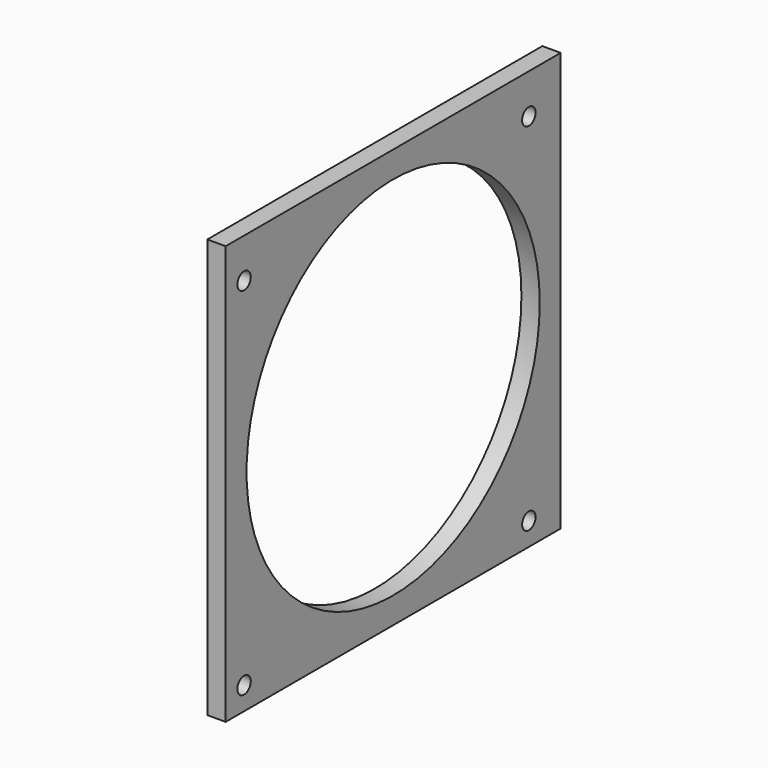
from build123d import *

# Parameters (mm, degrees)
F0_W     = 80
F0_H     = 80
F0_R     = 1.6
F0_R_2   = 35
F1_DEPTH = 3.5


with BuildPart() as f1:
    # F0 (on Right) → F1 (new body)
    with BuildSketch(Plane.YZ):
        Rectangle(F0_W, F0_H)
        with Locations((-35.6, -35.6)):
            Circle(F0_R, mode=Mode.SUBTRACT)
        with Locations((32.4, -35.6)):
            Circle(F0_R, mode=Mode.SUBTRACT)
        with Locations((-35.6, 32.4)):
            Circle(F0_R, mode=Mode.SUBTRACT)
        Circle(F0_R_2, mode=Mode.SUBTRACT)
        with Locations((32.4, 32.4)):
            Circle(F0_R, mode=Mode.SUBTRACT)
    extrude(amount=F1_DEPTH)


solid = f1.part
